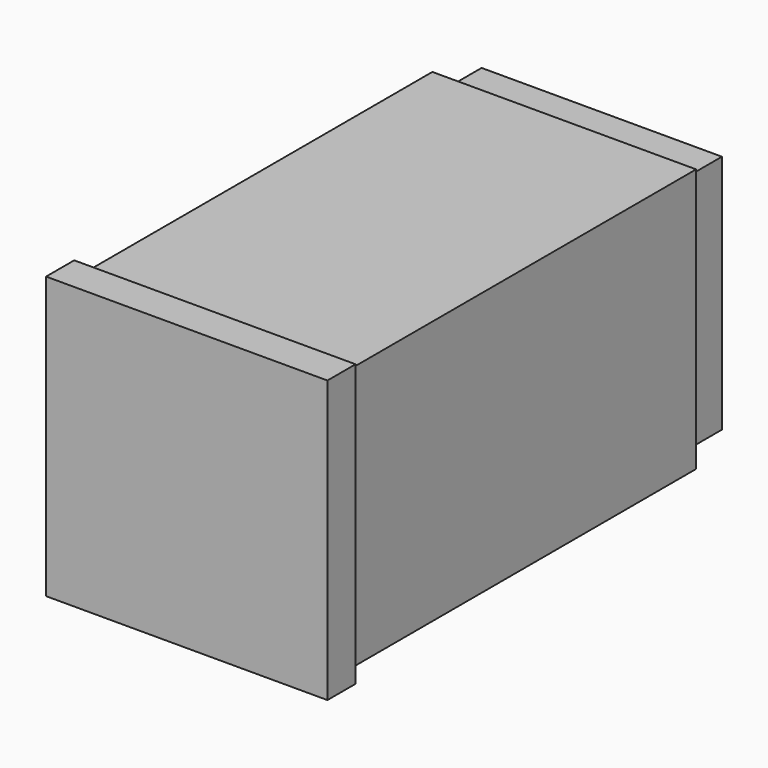
from build123d import *

# Parameters (mm, degrees)
F0_W     = 48
F0_H     = 48
F1_DEPTH = 6
F2_W     = 45
F2_H     = 45
F3_DEPTH = 74.5
F4_W     = 41
F4_H     = 41
F5_DEPTH = 8


with BuildPart() as f1:
    # F0 (on Front) → F1 (new body)
    with BuildSketch(Plane.XZ):
        Rectangle(F0_W, F0_H)
    extrude(amount=F1_DEPTH)

    # F2 (on face) → F3 (join)
    with BuildSketch(Plane(origin=(0, 0, 0), x_dir=(-1, 0, 0), z_dir=(0, 1, 0))):
        Rectangle(F2_W, F2_H)
    extrude(amount=F3_DEPTH)

    # F4 (on face) → F5 (join)
    with BuildSketch(Plane(origin=(0, 74.5, 0), x_dir=(-1, 0, 0), z_dir=(0, 1, 0))):
        Rectangle(F4_W, F4_H)
    extrude(amount=F5_DEPTH)


solid = f1.part
